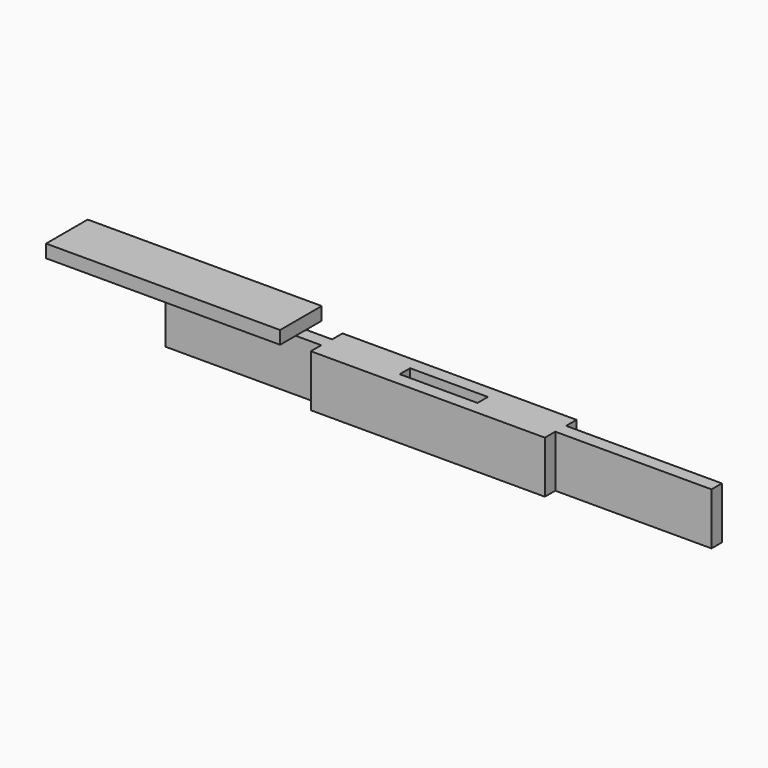
from build123d import *

# Parameters (mm, degrees)
F0_W     = 114.3
F0_H     = 25.4
F1_DEPTH = 6.35
F2_W     = 114.3
F2_H     = 25.4
F3_DEPTH = 6.35
F4_W     = 114.3
F4_H     = 25.4
F5_DEPTH = 6.35
F6_W     = 114.3
F6_H     = 25.4
F7_DEPTH = 6.35
F9_DEPTH = 6.35


with BuildPart() as f1:
    # F0 (on Front) → F1 (new body)
    with BuildSketch(Plane.XZ):
        with Locations((57.15, 12.7)):
            Rectangle(F0_W, F0_H)
    extrude(amount=F1_DEPTH)

    # F2 (on face) → F3 (join)
    with BuildSketch(Plane(origin=(0, 0, 0), x_dir=(-1, 0, 0), z_dir=(0, 1, 0))):
        with Locations((18.810974, 12.7)):
            Rectangle(F2_W, F2_H)
    extrude(amount=F3_DEPTH)

    # F4 (on face) → F5 (join)
    with BuildSketch(Plane(origin=(0, 6.35, 0), x_dir=(-1, 0, 0), z_dir=(0, 1, 0))):
        with Locations((-57.389026, 12.7)):
            Rectangle(F4_W, F4_H)
    extrude(amount=F5_DEPTH)

    # F6 (on face) → F7 (join)
    with BuildSketch(Plane(origin=(0, 0, 0), x_dir=(-1, 0, 0), z_dir=(0, 1, 0))):
        with Locations((-133.469513, 12.7)):
            Rectangle(F6_W, F6_H)
    extrude(amount=F7_DEPTH)

    # F8 (on face) → F9 (join)
    with BuildSketch(Plane.XY.offset(25.4)):
        Polygon((-126.760974, 3.175), (-85.020583, 3.175), (-12.460974, 3.175), (-12.460974, 15.875), (-126.760974, 15.875), align=None)
        Polygon((-12.460974, 3.175), (-85.020583, 3.175), (-126.760974, 3.175), (-126.760974, -9.525), (-12.460974, -9.525), align=None)
    extrude(amount=F9_DEPTH)


solid = f1.part
